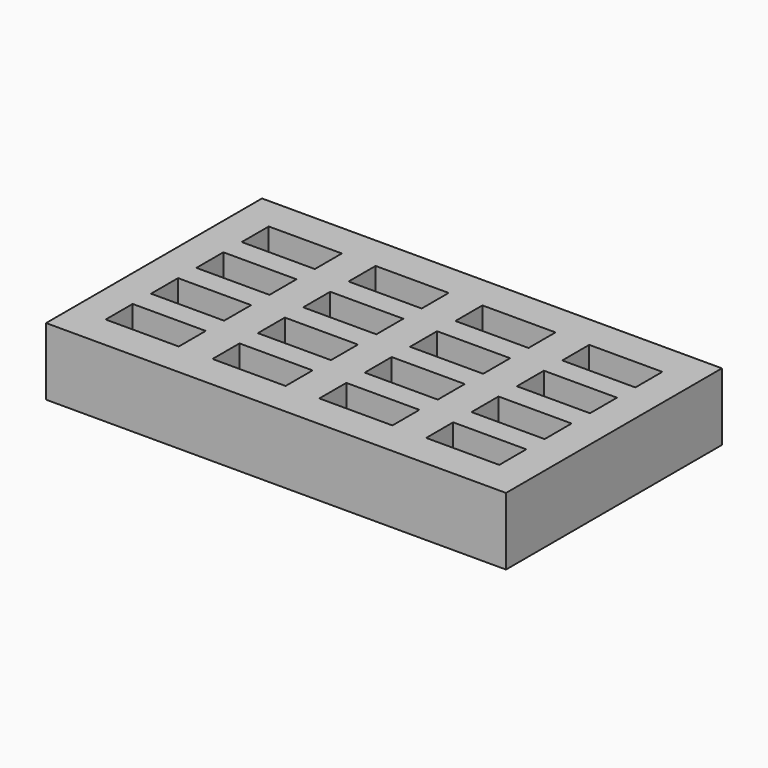
from build123d import *

# Parameters (mm, degrees)
F1_W     = 81.797302
F1_H     = 47.999315
F2_DEPTH = 12
F0_W     = 13
F0_H     = 6
F3_DEPTH = 12.001


with BuildPart() as f2:
    # F1 (on Top) → F2 (new body)
    with BuildSketch(Plane.XY):
        with Locations((28.601349, 14.999657)):
            Rectangle(F1_W, F1_H)
    extrude(amount=F2_DEPTH)

    # F0 (on Top) → F3 (cut, through all)
    with BuildSketch(Plane.XY):
        Rectangle(F0_W, F0_H)
        with Locations((0.067566, 9.999772)):
            Rectangle(F0_W, F0_H)
        with Locations((0.135132, 19.999543)):
            Rectangle(F0_W, F0_H)
        with Locations((0.202698, 29.999315)):
            Rectangle(F0_W, F0_H)
        with Locations((19, 0)):
            Rectangle(F0_W, F0_H)
        with Locations((19.067566, 9.999772)):
            Rectangle(F0_W, F0_H)
        with Locations((19.135132, 19.999543)):
            Rectangle(F0_W, F0_H)
        with Locations((19.202698, 29.999315)):
            Rectangle(F0_W, F0_H)
        with Locations((38, 0)):
            Rectangle(F0_W, F0_H)
        with Locations((38.067566, 9.999772)):
            Rectangle(F0_W, F0_H)
        with Locations((38.135132, 19.999543)):
            Rectangle(F0_W, F0_H)
        with Locations((38.202698, 29.999315)):
            Rectangle(F0_W, F0_H)
        with Locations((57, 0)):
            Rectangle(F0_W, F0_H)
        with Locations((57.067566, 9.999772)):
            Rectangle(F0_W, F0_H)
        with Locations((57.135132, 19.999543)):
            Rectangle(F0_W, F0_H)
        with Locations((57.202698, 29.999315)):
            Rectangle(F0_W, F0_H)
    extrude(amount=F3_DEPTH, mode=Mode.SUBTRACT)


solid = f2.part
